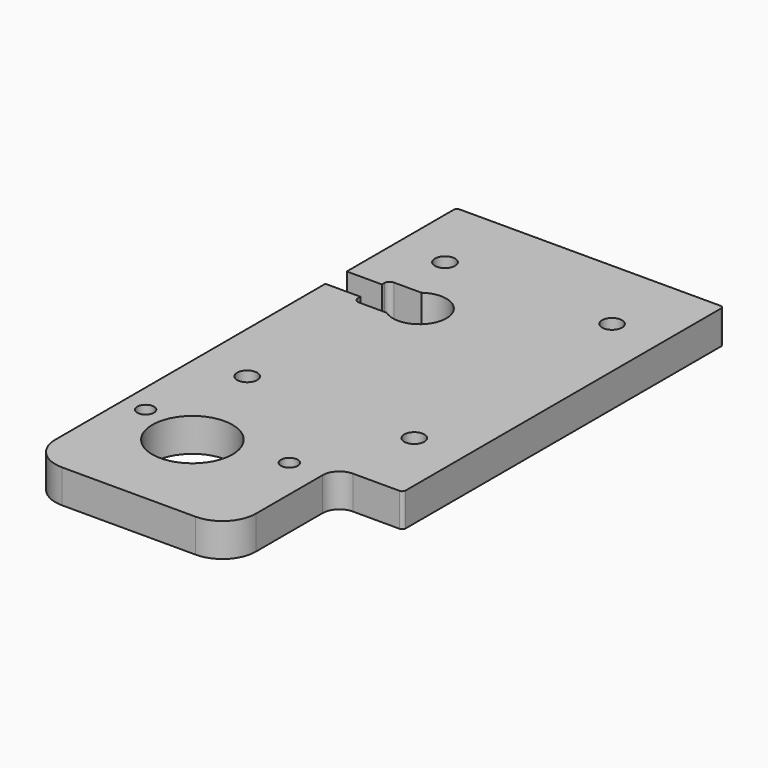
from build123d import *

# Parameters (mm, degrees)
SKETCH_R    = 3
SKETCH_R_2  = 2.5
SKETCH_R_3  = 12
PAD_DEPTH   = 10
FILLET_R    = 1
FILLET001_R = 5
FILLET002_R = 10
FILLET003_R = 1.6


with BuildPart() as part:
    # Sketch → Pad (new body)
    with BuildSketch(Plane.XY):
        with BuildLine():
            Line((-25, 45), (55, 45))
            Line((55, 45), (55, -75))
            Line((35, -75), (55, -75))
            Line((35, -115), (35, -75))
            Line((-25, -115), (35, -115))
            Line((-25, -4), (-25, -115))
            Line((-14.5, -4), (-25, -4))
            Line((-14.5, -6.5), (-14.5, -4))
            Line((-14.5, -6.5), (-4.66369, -6.5))
            ThreePointArc((-4.66369, -6.5), (8, 0), (-4.66369, 6.5))
            Line((-14.5, 6.5), (-4.66369, 6.5))
            Line((-14.5, 6.5), (-14.5, 4))
            Line((-14.5, 4), (-25, 4))
            Line((-25, 45), (-25, 4))
        make_face()
        with Locations((-10, -52)):
            Circle(SKETCH_R, mode=Mode.SUBTRACT)
        with Locations((40, -52)):
            Circle(SKETCH_R, mode=Mode.SUBTRACT)
        with Locations((40, 22)):
            Circle(SKETCH_R, mode=Mode.SUBTRACT)
        with Locations((-10, 22)):
            Circle(SKETCH_R, mode=Mode.SUBTRACT)
        with Locations((25, -80)):
            Circle(SKETCH_R_2, mode=Mode.SUBTRACT)
        with Locations((-18, -80)):
            Circle(SKETCH_R_2, mode=Mode.SUBTRACT)
        with Locations((0, -85)):
            Circle(SKETCH_R_3, mode=Mode.SUBTRACT)
    extrude(amount=PAD_DEPTH)

    # Fillet
    fillet_edges = [part.edges().sort_by_distance(p)[0] for p in [
        (55, -75, 5),
        (55, 45, 5),
        (-25, 45, 5),
    ]]
    fillet(fillet_edges, radius=FILLET_R)

    # Fillet001
    fillet001_edges = [part.edges().sort_by_distance(p)[0] for p in [
        (35, -75, 5),
    ]]
    fillet(fillet001_edges, radius=FILLET001_R)

    # Fillet002
    fillet002_edges = [part.edges().sort_by_distance(p)[0] for p in [
        (35, -115, 5),
        (-25, -115, 5),
    ]]
    fillet(fillet002_edges, radius=FILLET002_R)

    # Fillet003
    fillet003_edges = [part.edges().sort_by_distance(p)[0] for p in [
        (-14.5, 6.5, 5),
        (-14.5, -6.5, 5),
    ]]
    fillet(fillet003_edges, radius=FILLET003_R)


solid = part.part
